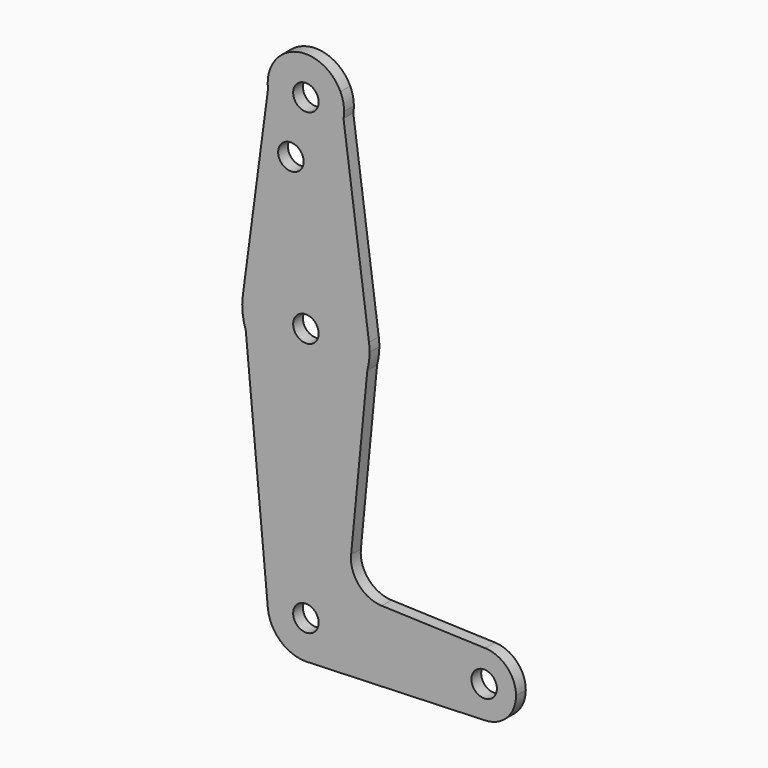
from build123d import *

# Parameters (mm, degrees)
F0_R     = 3.175
F1_DEPTH = 3.048


with BuildPart() as f1:
    # F0 (on Front) → F1 (new body)
    with BuildSketch(Plane.XZ):
        with BuildLine():
            ThreePointArc((15.318137, -4.167769), (15.735168, -2.102403), (15.875, 0))
            ThreePointArc((15.875, 0), (15.839342, 1.063422), (15.732529, 2.122067))
            ThreePointArc((15.732529, 2.122067), (-0.018042, 15.87499), (-15.737311, 2.086301))
            ThreePointArc((-15.737311, 2.086301), (-15.792011, -1.621115), (-14.985226, -5.240097))
            ThreePointArc((-14.985226, -5.240097), (0.561408, -15.86507), (15.318137, -4.167769))
        make_face()
        Circle(F0_R, mode=Mode.SUBTRACT)
        with BuildLine():
            ThreePointArc((-15.737311, 2.086301), (-0.018042, 15.87499), (15.732529, 2.122067))
            Line((15.732529, 2.122067), (9.38563, 49.176554))
            ThreePointArc((9.38563, 49.176554), (-0.193476, 41.276965), (-9.443824, 49.559105))
            Line((-9.443824, 49.559105), (-15.737311, 2.086301))
        make_face()
        with Locations((-3.741475, 36.5252)):
            Circle(F0_R, mode=Mode.SUBTRACT)
        with BuildLine():
            Line((11.271322, -45.93607), (15.318137, -4.167769))
            ThreePointArc((15.318137, -4.167769), (0.561408, -15.86507), (-14.985226, -5.240097))
            Line((-14.985226, -5.240097), (-9.48406, -64.38217))
            ThreePointArc((-9.48406, -64.38217), (-0.44156, -53.98524), (9.525, -63.5))
            ThreePointArc((9.525, -63.5), (6.970557, -69.991299), (0.677344, -73.000886))
            Line((0.677344, -73.000886), (44.732405, -71.432475))
            ThreePointArc((44.732405, -71.432475), (36.5125, -63.5), (44.732405, -55.567525))
            Line((44.732405, -55.567525), (18.901611, -54.647919))
            ThreePointArc((18.901611, -54.647919), (13.203858, -51.940881), (11.271322, -45.93607))
        make_face()
        with BuildLine():
            Line((8.620086, 54.852129), (9.38563, 49.176554))
            ThreePointArc((9.38563, 49.176554), (9.490094, 49.985291), (9.525, 50.8))
            ThreePointArc((9.525, 50.8), (9.296019, 52.875971), (8.620086, 54.852129))
        make_face()
        with BuildLine():
            ThreePointArc((-9.443824, 49.559105), (-0.193476, 41.276965), (9.38563, 49.176554))
            Line((9.38563, 49.176554), (8.620086, 54.852129))
            ThreePointArc((8.620086, 54.852129), (-0.215121, 60.32257), (-8.794279, 54.458727))
            Line((-8.794279, 54.458727), (-9.443824, 49.559105))
        make_face()
        with Locations((0, 50.8)):
            Circle(F0_R, mode=Mode.SUBTRACT)
        with BuildLine():
            ThreePointArc((-8.794279, 54.458727), (-9.442387, 52.051781), (-9.443824, 49.559105))
            Line((-9.443824, 49.559105), (-8.794279, 54.458727))
        make_face()
        with BuildLine():
            ThreePointArc((9.525, -63.5), (-0.44156, -53.98524), (-9.48406, -64.38217))
            ThreePointArc((-9.48406, -64.38217), (-6.415721, -70.540181), (0, -73.025))
            Line((0, -73.025), (0.677344, -73.000886))
            ThreePointArc((0.677344, -73.000886), (6.970557, -69.991299), (9.525, -63.5))
        make_face()
        with Locations((0, -63.5)):
            Circle(F0_R, mode=Mode.SUBTRACT)
        with BuildLine():
            Line((0.677344, -73.000886), (0, -73.025))
            ThreePointArc((0, -73.025), (0.338886, -73.01897), (0.677344, -73.000886))
        make_face()
        with BuildLine():
            ThreePointArc((52.3875, -63.5), (50.161633, -57.98809), (44.732405, -55.567525))
            ThreePointArc((44.732405, -55.567525), (36.5125, -63.5), (44.732405, -71.432475))
            ThreePointArc((44.732405, -71.432475), (50.161633, -69.01191), (52.3875, -63.5))
        make_face()
        with Locations((44.45, -63.5)):
            Circle(F0_R, mode=Mode.SUBTRACT)
    extrude(amount=F1_DEPTH)


solid = f1.part
